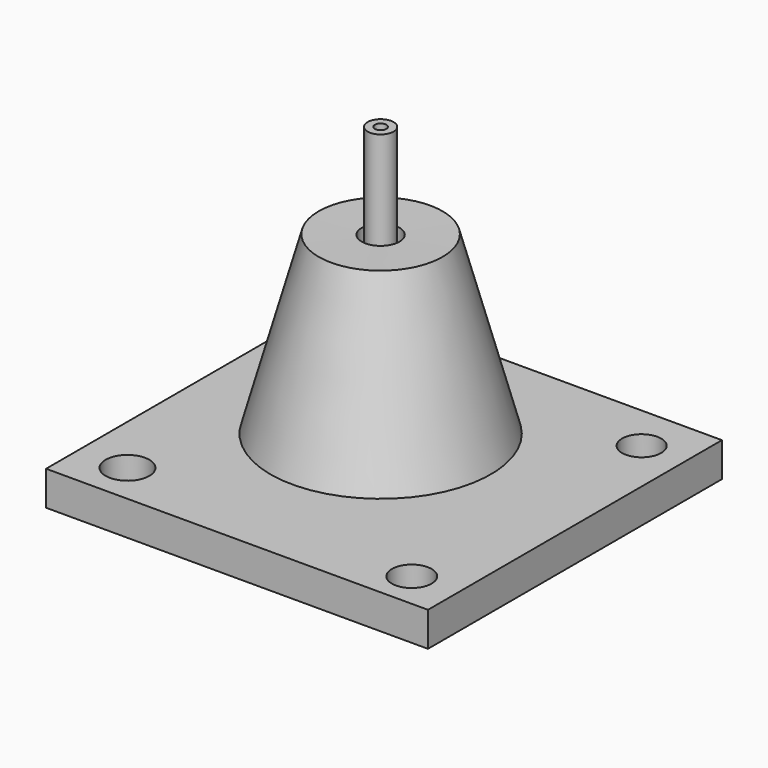
from build123d import *

# Parameters (mm, degrees)
F2_R     = 9.587678
F2_R_2   = 4.234703
F3_DEPTH = 139.7
F5_W     = 282.236397
F5_H     = 271.545619
F5_R     = 16.155004
F5_R_2   = 14.687376
F5_R_3   = 23.950401
F5_R_4   = 13.586701
F5_R_5   = 14.469037
F6_DEPTH = 25.4


with BuildPart() as f1:
    # F0 (on Front) → F1 (revolve)
    with BuildSketch(Plane.XZ):
        Polygon((-13.942028, 69.49234), (-45.747302, 69.928028), (-81.473768, -59.907191), (-13.942028, -59.907191), align=None)
    revolve(axis=Axis((0, 0, 7.188862), (0, 0, -1)))


with BuildPart() as f3:
    # F2 (on Top) → F3 (new body, symmetric)
    with BuildSketch(Plane.XY):
        Circle(F2_R)
        Circle(F2_R_2, mode=Mode.SUBTRACT)
    extrude(amount=F3_DEPTH, both=True)


with BuildPart() as f6:
    # F5 (on offset) → F6 (new body)
    with BuildSketch(Plane.XY.offset(-76.2)):
        with Locations((-1.781792, 5.34539)):
            Rectangle(F5_W, F5_H)
        with Locations((-106.906265, -100.19958)):
            Circle(F5_R, mode=Mode.SUBTRACT)
        with Locations((105.86568, -103.563562)):
            Circle(F5_R_2, mode=Mode.SUBTRACT)
        Circle(F5_R_3, mode=Mode.SUBTRACT)
        with Locations((-115.316227, 111.731365)):
            Circle(F5_R_4, mode=Mode.SUBTRACT)
        with Locations((107.547671, 106.685393)):
            Circle(F5_R_5, mode=Mode.SUBTRACT)
    extrude(amount=-F6_DEPTH)


solid = Compound([f1.part, f3.part, f6.part])
